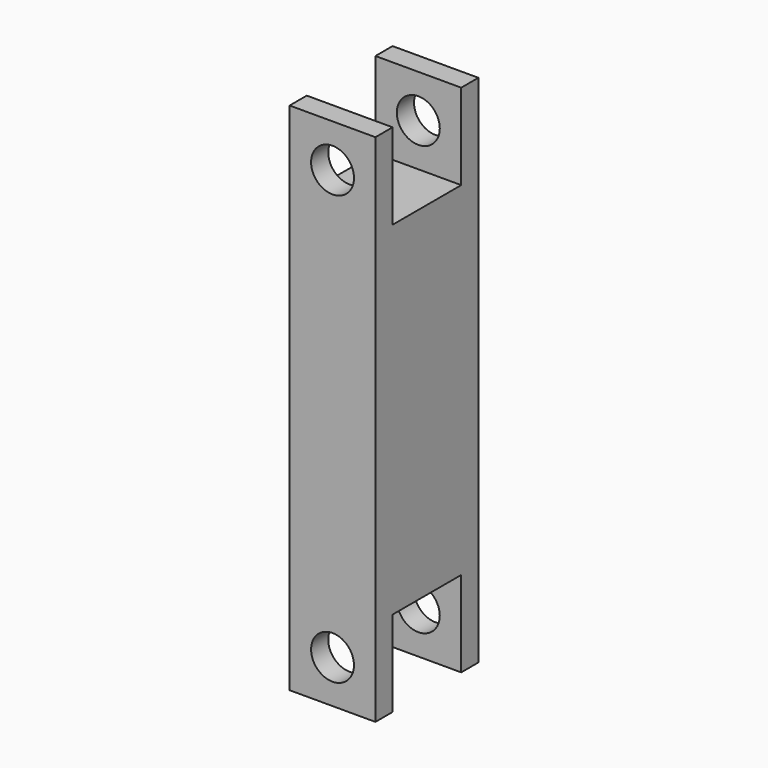
from build123d import *

# Parameters (mm, degrees)
F0_R     = 6.35
F1_DEPTH = 19.05
F2_W     = 25.4
F2_H     = 25.4
F3_DEPTH = 25.4


with BuildPart() as f1:
    # F0 (on Front) → F1 (new body, symmetric)
    with BuildSketch(Plane.XZ):
        with BuildLine():
            ThreePointArc((0, -12.7), (8.9802561211, -8.9802561211), (12.7, 0))
            ThreePointArc((12.7, 0), (8.9802561211, 8.9802561211), (0, 12.7))
            ThreePointArc((0, 12.7), (-8.9802561211, 8.9802561211), (-12.7, 0))
            ThreePointArc((-12.7, 0), (-8.9802561211, -8.9802561211), (0, -12.7))
        make_face()
        Circle(F0_R, mode=Mode.SUBTRACT)
        with BuildLine():
            Line((12.7, -12.7), (12.7, 0))
            ThreePointArc((12.7, 0), (8.9802561211, -8.9802561211), (0, -12.7))
            Line((0, -12.7), (12.7, -12.7))
        make_face()
        with BuildLine():
            ThreePointArc((0, 12.7), (8.9802561211, 8.9802561211), (12.7, 0))
            Line((12.7, 0), (12.7, 12.7))
            Line((12.7, 12.7), (0, 12.7))
        make_face()
        with BuildLine():
            ThreePointArc((-12.7, 0), (-8.9802561211, 8.9802561211), (0, 12.7))
            Line((0, 12.7), (-12.7, 12.7))
            Line((-12.7, 12.7), (-12.7, 0))
        make_face()
        with BuildLine():
            Line((-12.7, -12.7), (0, -12.7))
            ThreePointArc((0, -12.7), (-8.9802561211, -8.9802561211), (-12.7, 0))
            Line((-12.7, 0), (-12.7, -12.7))
        make_face()
        Polygon((12.7, -12.7), (0, -12.7), (-12.7, -12.7), (-12.7, -114.3), (0, -114.3), (12.7, -114.3), align=None)
        with BuildLine():
            Line((12.7, -127), (12.7, -114.3))
            Line((12.7, -114.3), (0, -114.3))
            ThreePointArc((0, -114.3), (8.9802561211, -118.0197438789), (12.7, -127))
        make_face()
        with BuildLine():
            Line((0, -114.3), (-12.7, -114.3))
            Line((-12.7, -114.3), (-12.7, -127))
            ThreePointArc((-12.7, -127), (-8.9802561211, -118.0197438789), (0, -114.3))
        make_face()
        with BuildLine():
            ThreePointArc((0, -139.7), (8.9802561211, -135.9802561211), (12.7, -127))
            ThreePointArc((12.7, -127), (8.9802561211, -118.0197438789), (0, -114.3))
            ThreePointArc((0, -114.3), (-8.9802561211, -118.0197438789), (-12.7, -127))
            ThreePointArc((-12.7, -127), (-8.9802561211, -135.9802561211), (0, -139.7))
        make_face()
        with Locations((0, -127)):
            Circle(F0_R, mode=Mode.SUBTRACT)
        with BuildLine():
            Line((12.7, -139.7), (12.7, -127))
            ThreePointArc((12.7, -127), (8.9802561211, -135.9802561211), (0, -139.7))
            Line((0, -139.7), (12.7, -139.7))
        make_face()
        with BuildLine():
            ThreePointArc((0, -139.7), (-8.9802561211, -135.9802561211), (-12.7, -127))
            Line((-12.7, -127), (-12.7, -139.7))
            Line((-12.7, -139.7), (0, -139.7))
        make_face()
    extrude(amount=F1_DEPTH, both=True)

    # F2 (on Right) → F3 (cut, symmetric)
    with BuildSketch(Plane.YZ):
        Rectangle(F2_W, F2_H)
        with Locations((0, -127)):
            Rectangle(F2_W, F2_H)
    extrude(amount=F3_DEPTH, both=True, mode=Mode.SUBTRACT)


solid = f1.part
